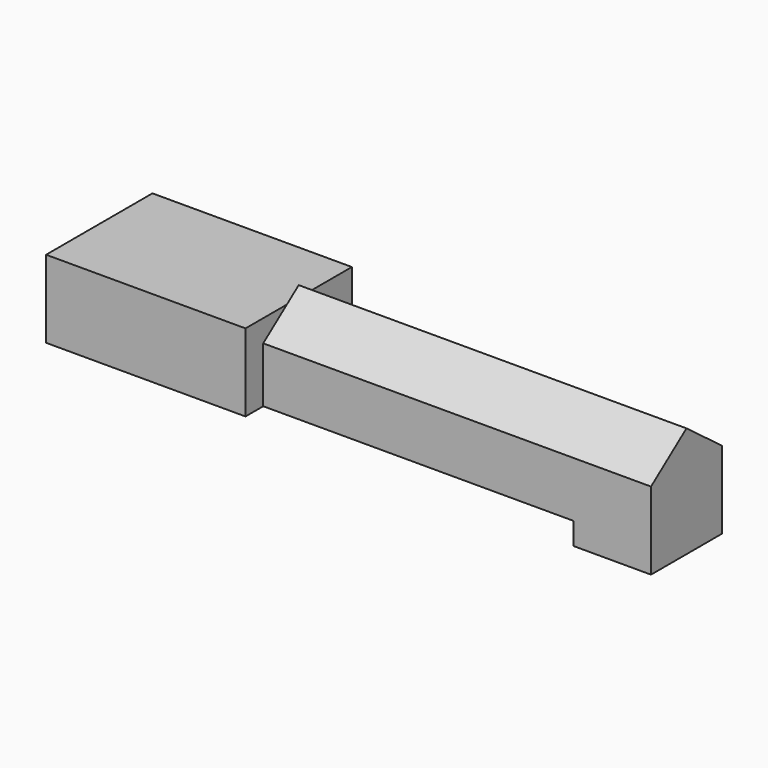
from build123d import *

# Parameters (mm, degrees)
F1_DEPTH = 7.62
F2_DEPTH = 7.62
F0_W     = 35.56
F0_H     = 6.35
F0_W_2   = 8.89
F0_H_2   = 2.54
F3_DEPTH = 5.08
F4_DEPTH = 5.08
F6_DEPTH = 44.45


with BuildPart() as f1:
    # F0 (on Front) → F1 (new body)
    with BuildSketch(Plane.XZ):
        Polygon((34.29, 8.89), (34.29, 0), (57.15, 0), (57.15, 6.35), (57.15, 8.89), align=None)
    extrude(amount=F1_DEPTH)

    # F0 (on Front) → F2 (join)
    with BuildSketch(Plane.XZ):
        Polygon((34.29, 8.89), (34.29, 0), (57.15, 0), (57.15, 6.35), (57.15, 8.89), align=None)
    extrude(amount=-F2_DEPTH)

    # F0 (on Front) → F3 (join)
    with BuildSketch(Plane.XZ):
        with Locations((74.93, 3.175)):
            Rectangle(F0_W, F0_H)
        with Locations((97.155, 3.175)):
            Rectangle(F0_W_2, F0_H)
        with Locations((97.155, -1.27)):
            Rectangle(F0_W_2, F0_H_2)
    extrude(amount=F3_DEPTH)

    # F0 (on Front) → F4 (join)
    with BuildSketch(Plane.XZ):
        with Locations((74.93, 3.175)):
            Rectangle(F0_W, F0_H)
        with Locations((97.155, 3.175)):
            Rectangle(F0_W_2, F0_H)
        with Locations((97.155, -1.27)):
            Rectangle(F0_W_2, F0_H_2)
    extrude(amount=-F4_DEPTH)

    # F5 (on face) → F6 (join)
    with BuildSketch(Plane.YZ.offset(101.6)):
        Polygon((0, 10.16), (0, 6.35), (5.08, 6.35), align=None)
        Polygon((-5.08, 6.35), (0, 6.35), (0, 10.16), align=None)
    extrude(amount=-F6_DEPTH)


solid = f1.part
